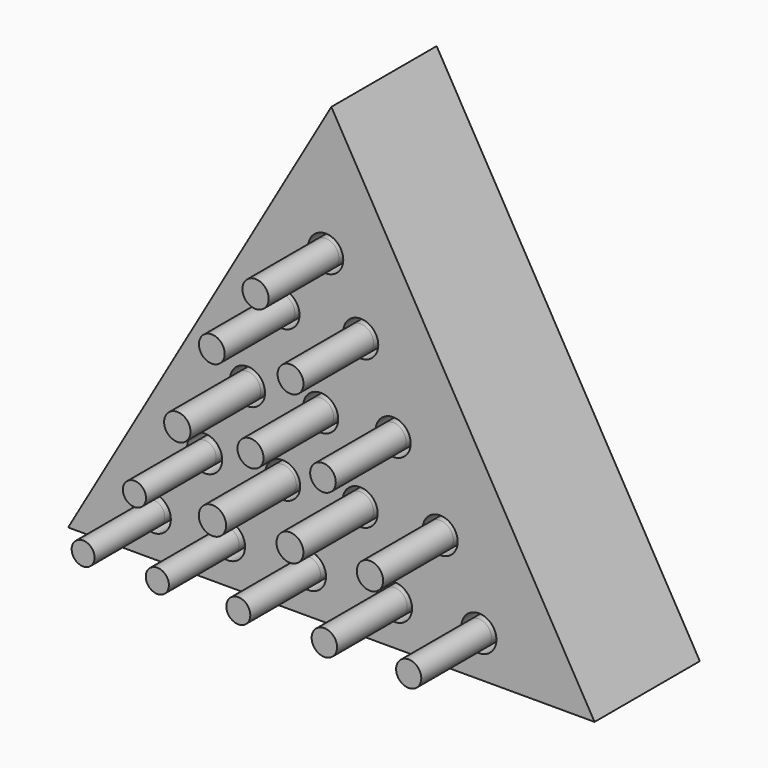
from build123d import *

# Parameters (mm, degrees)
F1_DEPTH       = 19.05
F2_R           = 2.54
F3_DEPTH       = 9.398
F4_R           = 2.54
F5_DEPTH       = 9.398
F6_R           = 2.54
F7_DEPTH       = 9.398
F8_R           = 2.54
F9_DEPTH       = 9.398
F10_R          = 2.54
F11_DEPTH      = 9.398
F12_R          = 1.905
F13_DEPTH      = 8.89
F13_DEPTH_BACK = 12.7
F14_R          = 1.8231175901
F15_DEPTH      = 8.89
F15_DEPTH_BACK = 12.7
F14_R_2        = 1.8407088367
F14_R_3        = 1.7355856223
F14_R_4        = 1.6773164988
F14_R_5        = 1.6567908002
F14_R_6        = 1.8651431194
F14_R_7        = 1.8781487424
F14_R_8        = 1.9097768469
F14_R_9        = 1.8836206477
F14_R_10       = 1.6724408245
F14_R_11       = 1.9760756437
F14_R_12       = 1.9464372374
F14_R_13       = 1.9085246281
F14_R_14       = 1.8545655977


with BuildPart() as f1:
    # F0 (on Front) → F1 (new body)
    with BuildSketch(Plane.XZ):
        Polygon((-38.1, 65.9911357684), (-76.2, 0), (0, 0), align=None)
    extrude(amount=F1_DEPTH)

    # F2 (on face) → F3 (cut)
    with BuildSketch(Plane.XZ.offset(19.05)):
        with Locations((-63.8775229454, 5.8617116883)):
            Circle(F2_R)
        with Locations((-53.1322397292, 5.8617116883)):
            Circle(F2_R)
        with Locations((-41.4101108909, 5.8617116883)):
            Circle(F2_R)
        with Locations((-28.9553515613, 5.8617116883)):
            Circle(F2_R)
        with Locations((-16.7448036373, 5.8617116883)):
            Circle(F2_R)
    extrude(amount=-F3_DEPTH, mode=Mode.SUBTRACT)

    # F4 (on face) → F5 (cut)
    with BuildSketch(Plane.XZ.offset(19.05)):
        with Locations((-22.3506838083, 16.5130533278)):
            Circle(F4_R)
        with Locations((-33.9331932472, 16.3507863745)):
            Circle(F4_R)
        with Locations((-45.1505574905, 16.148444045)):
            Circle(F4_R)
        with Locations((-56.4403630179, 15.8650148127)):
            Circle(F4_R)
    extrude(amount=-F5_DEPTH, mode=Mode.SUBTRACT)

    # F6 (on face) → F7 (cut)
    with BuildSketch(Plane.XZ.offset(19.05)):
        with Locations((-50.242215395, 26.4279861003)):
            Circle(F6_R)
        with Locations((-39.643510285, 26.5160694736)):
            Circle(F6_R)
        with Locations((-29.1551282548, 26.8241004757)):
            Circle(F6_R)
    extrude(amount=-F7_DEPTH, mode=Mode.SUBTRACT)

    # F8 (on face) → F9 (cut)
    with BuildSketch(Plane.XZ.offset(19.05)):
        with Locations((-45.2477921476, 37.9703484034)):
            Circle(F8_R)
        with Locations((-33.8478787245, 37.8432946619)):
            Circle(F8_R)
    extrude(amount=-F9_DEPTH, mode=Mode.SUBTRACT)

    # F10 (on face) → F11 (cut)
    with BuildSketch(Plane.XZ.offset(19.05)):
        with Locations((-38.9159359038, 47.0476225019)):
            Circle(F10_R)
    extrude(amount=-F11_DEPTH, mode=Mode.SUBTRACT)


with BuildPart() as f13:
    # F12 (on face) → F13 (new body, two sides)
    with BuildSketch(Plane.XZ.offset(19.05)) as f13_sk:
        with Locations((-38.9159359038, 47.0476225019)):
            Circle(F12_R)
    extrude(amount=-F13_DEPTH)
    extrude(f13_sk.sketch, amount=F13_DEPTH_BACK)


with BuildPart() as f15:
    # F14 (on face) → F15 (new body, two sides)
    with BuildSketch(Plane.XZ.offset(19.05)) as f15_sk:
        with Locations((-16.7448036373, 5.8617116883)):
            Circle(F14_R)
    extrude(amount=-F15_DEPTH)
    extrude(f15_sk.sketch, amount=F15_DEPTH_BACK)


with BuildPart() as f15b:
    # F14 (on face) → F15, piece 2 (new body, two sides)
    with BuildSketch(Plane.XZ.offset(19.05)) as f15_2_sk:
        with Locations((-28.9553515613, 5.8617116883)):
            Circle(F14_R_2)
    extrude(amount=-F15_DEPTH)
    extrude(f15_2_sk.sketch, amount=F15_DEPTH_BACK)


with BuildPart() as f15c:
    # F14 (on face) → F15, piece 3 (new body, two sides)
    with BuildSketch(Plane.XZ.offset(19.05)) as f15_3_sk:
        with Locations((-41.4101108909, 5.8617116883)):
            Circle(F14_R_3)
    extrude(amount=-F15_DEPTH)
    extrude(f15_3_sk.sketch, amount=F15_DEPTH_BACK)


with BuildPart() as f15d:
    # F14 (on face) → F15, piece 4 (new body, two sides)
    with BuildSketch(Plane.XZ.offset(19.05)) as f15_4_sk:
        with Locations((-53.1322397292, 5.8617116883)):
            Circle(F14_R_4)
    extrude(amount=-F15_DEPTH)
    extrude(f15_4_sk.sketch, amount=F15_DEPTH_BACK)


with BuildPart() as f15e:
    # F14 (on face) → F15, piece 5 (new body, two sides)
    with BuildSketch(Plane.XZ.offset(19.05)) as f15_5_sk:
        with Locations((-63.8775229454, 5.8617116883)):
            Circle(F14_R_5)
    extrude(amount=-F15_DEPTH)
    extrude(f15_5_sk.sketch, amount=F15_DEPTH_BACK)


with BuildPart() as f15f:
    # F14 (on face) → F15, piece 6 (new body, two sides)
    with BuildSketch(Plane.XZ.offset(19.05)) as f15_6_sk:
        with Locations((-45.2477921476, 37.9703484034)):
            Circle(F14_R_6)
    extrude(amount=-F15_DEPTH)
    extrude(f15_6_sk.sketch, amount=F15_DEPTH_BACK)


with BuildPart() as f15g:
    # F14 (on face) → F15, piece 7 (new body, two sides)
    with BuildSketch(Plane.XZ.offset(19.05)) as f15_7_sk:
        with Locations((-33.8478787245, 37.8432946619)):
            Circle(F14_R_7)
    extrude(amount=-F15_DEPTH)
    extrude(f15_7_sk.sketch, amount=F15_DEPTH_BACK)


with BuildPart() as f15h:
    # F14 (on face) → F15, piece 8 (new body, two sides)
    with BuildSketch(Plane.XZ.offset(19.05)) as f15_8_sk:
        with Locations((-50.242215395, 26.4279861003)):
            Circle(F14_R_8)
    extrude(amount=-F15_DEPTH)
    extrude(f15_8_sk.sketch, amount=F15_DEPTH_BACK)


with BuildPart() as f15i:
    # F14 (on face) → F15, piece 9 (new body, two sides)
    with BuildSketch(Plane.XZ.offset(19.05)) as f15_9_sk:
        with Locations((-39.643510285, 26.5160694736)):
            Circle(F14_R_9)
    extrude(amount=-F15_DEPTH)
    extrude(f15_9_sk.sketch, amount=F15_DEPTH_BACK)


with BuildPart() as f15j:
    # F14 (on face) → F15, piece 10 (new body, two sides)
    with BuildSketch(Plane.XZ.offset(19.05)) as f15_10_sk:
        with Locations((-56.4403630179, 15.8650148127)):
            Circle(F14_R_10)
    extrude(amount=-F15_DEPTH)
    extrude(f15_10_sk.sketch, amount=F15_DEPTH_BACK)


with BuildPart() as f15k:
    # F14 (on face) → F15, piece 11 (new body, two sides)
    with BuildSketch(Plane.XZ.offset(19.05)) as f15_11_sk:
        with Locations((-45.1505574905, 16.148444045)):
            Circle(F14_R_11)
    extrude(amount=-F15_DEPTH)
    extrude(f15_11_sk.sketch, amount=F15_DEPTH_BACK)


with BuildPart() as f15l:
    # F14 (on face) → F15, piece 12 (new body, two sides)
    with BuildSketch(Plane.XZ.offset(19.05)) as f15_12_sk:
        with Locations((-33.9331932472, 16.3507863745)):
            Circle(F14_R_12)
    extrude(amount=-F15_DEPTH)
    extrude(f15_12_sk.sketch, amount=F15_DEPTH_BACK)


with BuildPart() as f15m:
    # F14 (on face) → F15, piece 13 (new body, two sides)
    with BuildSketch(Plane.XZ.offset(19.05)) as f15_13_sk:
        with Locations((-22.3506838083, 16.5130533278)):
            Circle(F14_R_13)
    extrude(amount=-F15_DEPTH)
    extrude(f15_13_sk.sketch, amount=F15_DEPTH_BACK)


with BuildPart() as f15n:
    # F14 (on face) → F15, piece 14 (new body, two sides)
    with BuildSketch(Plane.XZ.offset(19.05)) as f15_14_sk:
        with Locations((-29.1551282548, 26.8241004757)):
            Circle(F14_R_14)
    extrude(amount=-F15_DEPTH)
    extrude(f15_14_sk.sketch, amount=F15_DEPTH_BACK)


solid = Compound([f1.part, f13.part, f15.part, f15b.part, f15c.part, f15d.part, f15e.part, f15f.part, f15g.part, f15h.part, f15i.part, f15j.part, f15k.part, f15l.part, f15m.part, f15n.part])
